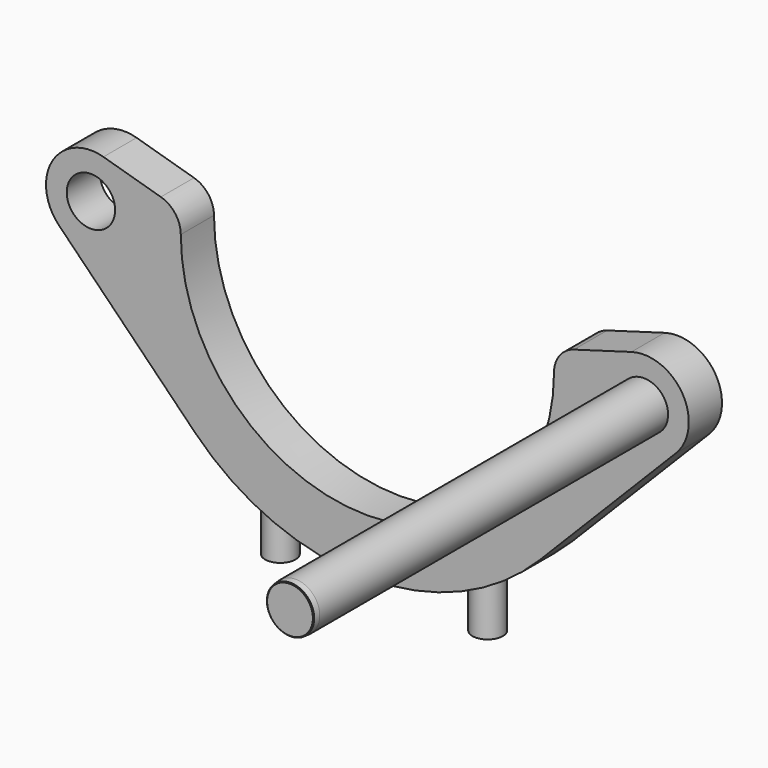
from build123d import *

# Parameters (mm, degrees)
F1_R      = 17.5
F2_DEPTH  = 15
F4_R      = 11
F5_DEPTH  = 45
F6_R      = 17.5
F7_DEPTH  = 350
F8_SIZE2  = 0.4374433176
F8_SIZE   = 5
F9_SIZE   = 0.5
F10_SIZE2 = 0.4374433176
F10_SIZE  = 5
F11_SIZE  = 0.5


with BuildPart() as f2:
    # F1 (on Front) → F2 (new body, symmetric)
    with BuildSketch(Plane.XZ):
        with BuildLine():
            ThreePointArc((135, 0), (0, -135), (-135, 0))
            ThreePointArc((-135, 0), (-139.0138949223, 12.0185042515), (-149.4444444444, 19.2129071842))
            Line((-149.4444444444, 19.2129071842), (-190.9722222222, 31.2209741743))
            ThreePointArc((-190.9722222222, 31.2209741743), (-227.9210882908, 16.6331845615), (-223.15625, -22.8043435761))
            Line((-223.15625, -22.8043435761), (-124.6875, -122.792619256))
            ThreePointArc((-124.6875, -122.792619256), (0, -175), (124.6875, -122.792619256))
            Line((124.6875, -122.792619256), (223.15625, -22.8043435761))
            ThreePointArc((223.15625, -22.8043435761), (227.9210882908, 16.6331845615), (190.9722222222, 31.2209741743))
            Line((190.9722222222, 31.2209741743), (149.4444444444, 19.2129071842))
            ThreePointArc((149.4444444444, 19.2129071842), (139.0138949223, 12.0185042515), (135, 0))
        make_face()
        with Locations((-200, 0)):
            Circle(F1_R, mode=Mode.SUBTRACT)
        with Locations((200, 0)):
            Circle(F1_R, mode=Mode.SUBTRACT)
    extrude(amount=F2_DEPTH, both=True)

    # F4 (on offset) → F5 (join)
    with BuildSketch(Plane.XY.offset(-190)):
        with Locations((-75, 0)):
            Circle(F4_R)
        with Locations((75, 0)):
            Circle(F4_R)
    extrude(amount=F5_DEPTH)


with BuildPart() as f7:
    # F6 (on face) → F7 (new body)
    with BuildSketch(Plane(origin=(0, 15, 0), x_dir=(-1, 0, 0), z_dir=(0, 1, 0))):
        with Locations((-200, 0)):
            Circle(F6_R)
    extrude(amount=-F7_DEPTH)

    # F8
    f8_edges = [f7.edges().sort_by_distance(p)[0] for p in [
        (217.5, 15, 0),
    ]]
    f8_side = f7.faces().sort_by_distance((217.5, -160, 0))[0]
    chamfer(f8_edges, length=F8_SIZE, length2=F8_SIZE2, reference=f8_side)

    # F9
    f9_edges = [f7.edges().sort_by_distance(p)[0] for p in [
        (217.062557, 15, 0),
    ]]
    chamfer(f9_edges, length=F9_SIZE)

    # F10
    f10_edges = [f7.edges().sort_by_distance(p)[0] for p in [
        (217.5, -335, 0),
    ]]
    f10_side = f7.faces().sort_by_distance((217.5, -162.5, 0))[0]
    chamfer(f10_edges, length=F10_SIZE, length2=F10_SIZE2, reference=f10_side)

    # F11
    f11_edges = [f7.edges().sort_by_distance(p)[0] for p in [
        (217.062557, -335, 0),
    ]]
    chamfer(f11_edges, length=F11_SIZE)


solid = Compound([f2.part, f7.part])
